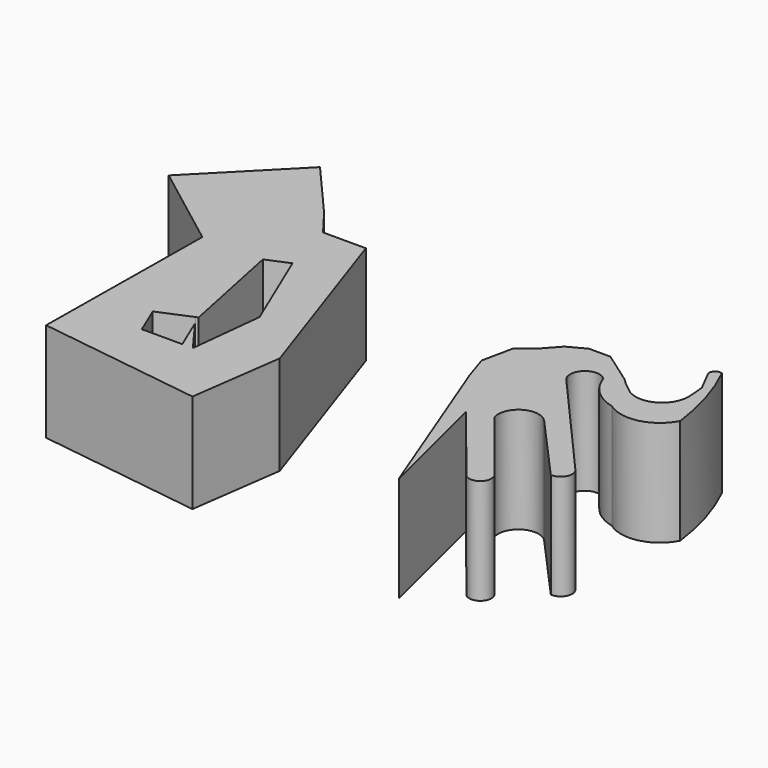
from build123d import *

# Parameters (mm, degrees)
F1_DEPTH = 127
F3_DEPTH = 119.38


with BuildPart() as f1:
    # F0 (on Top) → F1 (new body)
    with BuildSketch(Plane.XY):
        Polygon((-27.8500765562, -83.401106298), (-71.9203203917, -22.4698632956), (8.0826310441, -229.5041382313), align=None)
        with BuildLine():
            Line((53.8546517491, 55.2272535861), (47.2315736115, 61.5652017295))
            Line((47.2315736115, 61.5652017295), (8.0826310441, 89.2012640834))
            Line((8.0826310441, 89.2012640834), (-17.839435488, 89.2012640834))
            Line((-17.839435488, 89.2012640834), (-38.5297127068, 78.1025588512))
            Line((-38.5297127068, 78.1025588512), (-56.0900084674, 58.6491338909))
            Line((-56.0900084674, 58.6491338909), (-73.6766457558, 45.1082214713))
            Line((-73.6766457558, 45.1082214713), (-77.5065869093, 26.8075019121))
            Line((-77.5065869093, 26.8075019121), (-81.6049575806, 7.5049828738))
            Line((-81.6049575806, 7.5049828738), (-71.9203203917, -22.4698632956))
            Line((-71.9203203917, -22.4698632956), (-27.8500765562, -83.401106298))
            Line((-27.8500765562, -83.401106298), (54.1515424848, -185.0970685482))
            ThreePointArc((54.1515424848, -185.0970685482), (72.0175815164, -184.3953802652), (73.0803310871, -166.5471792221))
            Line((73.0803310871, -166.5471792221), (0, -75.5367204547))
            ThreePointArc((0, -75.5367204547), (11.1097208547, -47.1167916073), (41.233278811, -51.9839785993))
            Line((41.233278811, -51.9839785993), (114.8240193725, -133.9783072472))
            ThreePointArc((114.8240193725, -133.9783072472), (128.2200736103, -126.4971300957), (126.2753009796, -111.2774014473))
            Line((126.2753009796, -111.2774014473), (3.9720330387, 27.7815870941))
            ThreePointArc((3.9720330387, 27.7815870941), (7.5420221765, 51.1961879787), (31.1835985631, 49.7594475746))
            ThreePointArc((31.1835985631, 49.7594475746), (46.4833923718, 25.2174412989), (71.9238519669, 11.4632863551))
            ThreePointArc((71.9238519669, 11.4632863551), (110.3235451888, 3.7599618386), (141.2563621998, 27.7815870941))
            ThreePointArc((141.2563621998, 27.7815870941), (130.4295318611, 79.2212570691), (111.2462505698, 128.1626671553))
            ThreePointArc((111.2462505698, 128.1626671553), (103.1691101765, 126.6914561874), (101.9652038813, 118.5701712966))
            Line((101.9652038813, 118.5701712966), (114.9711357639, 93.2527825431))
            Line((114.9711357639, 93.2527825431), (116.4921596646, 73.6078992486))
            ThreePointArc((116.4921596646, 73.6078992486), (99.6430644386, 43.0440571042), (64.9007037282, 46.3620126247))
            Line((64.9007037282, 46.3620126247), (53.8546517491, 55.2272535861))
        make_face()
    extrude(amount=F1_DEPTH)


with BuildPart() as f3:
    # F2 (on Top) → F3 (new body)
    with BuildSketch(Plane.XY):
        Polygon((-331.365283351, -131.1595588923), (-380.0887465477, -131.1595588923), (-394.7245180607, -96.4695587754), (-356.192472799, -80.2128217192), (-452.9548585415, 51.0273575783), (-455.5248241755, -181.0605089181), (-257.2322785854, -208.5220366716), (-241.7141348124, -96.4695587754), (-318.6298310757, 129.3286997427), (-370.2089465389, 129.3286997427), (-296.8273460865, 32.8501425683), (-318.6298310757, -131.1595588923), (-348.4016461166, -90.779629088), align=None)
        Polygon((-452.9548585415, 51.0273575783), (-356.192472799, -80.2128217192), (-353.3633818156, -79.0192233023), (-380.0887465477, 51.0273575783), (-353.3633818156, 62.3028355403), (-309.1097634535, -42.5879810995), (-318.6298310757, -131.1595588923), (-296.8273460865, 32.8501425683), (-370.2089465389, 129.3286997427), (-394.7245180607, 129.3286997427), (-410.4514699999, 131.7075745625), align=None)
        Polygon((-556.1253478328, 129.3286997427), (-452.9548585415, 51.0273575783), (-440.0733411312, 136.1882090569), (-410.4514699999, 131.7075745625), (-394.7245180607, 161.5605801344), (-455.5248241755, 231.3986420631), align=None)
        Polygon((-440.0733411312, 136.1882090569), (-452.9548585415, 51.0273575783), (-410.4514699999, 131.7075745625), align=None)
        Polygon((-394.7245180607, 161.5605801344), (-410.4514699999, 131.7075745625), (-394.7245180607, 129.3286997427), (-370.2089465389, 129.3286997427), align=None)
    extrude(amount=F3_DEPTH)


solid = Compound([f1.part, f3.part])
